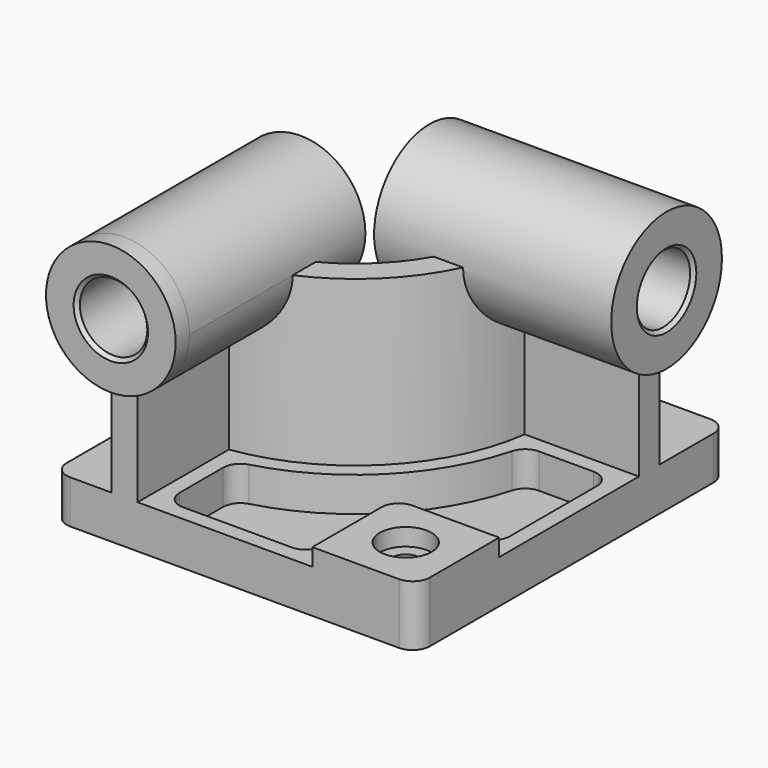
from build123d import *

# Parameters (mm, degrees)
F0_W            = 210
F0_H            = 225
F1_DEPTH        = 25
F3_DEPTH        = 95
F4_R            = 37.5
F5_DEPTH        = 10
F5_DEPTH_BACK   = 127.1
F6_R            = 40
F7_DEPTH        = 10
F7_DEPTH_BACK   = 127.1
F8_W            = 60
F8_H            = 60
F9_DEPTH        = 10
F10_R           = 10
F12_DEPTH       = 20
F14_D           = 15
F14_CBORE_D     = 30
F14_CBORE_DEPTH = 10
F15_R           = 10
F16_R           = 19.5
F17_DEPTH       = 235.001
F18_R           = 19.5
F19_DEPTH       = 220.001
F20_SIZE        = 2
F21_R           = 10


with BuildPart() as f1:
    # F0 (on Top) → F1 (new body)
    with BuildSketch(Plane.XY):
        Rectangle(F0_W, F0_H)
    extrude(amount=F1_DEPTH)

    # F2 (on face) → F3 (join)
    with BuildSketch(Plane.XY.offset(25)):
        with BuildLine():
            Line((-71, -32.5), (-71, -112.5))
            Line((-71, -112.5), (-56, -112.5))
            Line((-56, -112.5), (-56, -46.481817))
            ThreePointArc((-56, -46.481817), (7.488853, -14.988853), (38.981817, 48.5))
            Line((38.981817, 48.5), (105, 48.5))
            Line((105, 48.5), (105, 63.5))
            Line((105, 63.5), (25, 63.5))
            ThreePointArc((25, 63.5), (-3.117749, -4.382251), (-71, -32.5))
        make_face()
    extrude(amount=F3_DEPTH)

    # F4 (on face) → F5 (join, two sides)
    with BuildSketch(Plane.XZ.offset(112.5)) as f5_sk:
        with Locations((-63.5, 120)):
            Circle(F4_R)
    extrude(amount=F5_DEPTH)
    extrude(f5_sk.sketch, amount=-F5_DEPTH_BACK)

    # F6 (on face) → F7 (join, two sides)
    with BuildSketch(Plane.YZ.offset(105)) as f7_sk:
        with Locations((56, 120)):
            Circle(F6_R)
    extrude(amount=F7_DEPTH)
    extrude(f7_sk.sketch, amount=-F7_DEPTH_BACK)

    # F8 (on face) → F9 (join)
    with BuildSketch(Plane.XY.offset(25)):
        with Locations((75, -82.5)):
            Rectangle(F8_W, F8_H)
    extrude(amount=F9_DEPTH)

    # F10
    f10_edges = [f1.edges().sort_by_distance(p)[0] for p in [
        (45, -52.5, 30),
    ]]
    fillet(f10_edges, radius=F10_R)

    # F11 (on face) → F12 (cut)
    with BuildSketch(Plane.XY.offset(25)):
        with BuildLine():
            ThreePointArc((46.575508, 39.5), (13.852814, -21.352814), (-47, -54.075508))
            Line((-47, -54.075508), (-47, -103.5))
            Line((-47, -103.5), (36, -103.5))
            Line((36, -103.5), (36, -62.5))
            ThreePointArc((36, -62.5), (41.564971, -49.064971), (55, -43.5))
            Line((55, -43.5), (96, -43.5))
            Line((96, -43.5), (96, 39.5))
            Line((96, 39.5), (46.575508, 39.5))
        make_face()
    extrude(amount=-F12_DEPTH, mode=Mode.SUBTRACT)

    # F14 (through all)
    with Locations(Plane.XY.offset(35)):
        with Locations((75, -82.5)):
            CounterBoreHole(F14_D / 2, F14_CBORE_D / 2, F14_CBORE_DEPTH)

    # F15
    f15_edges = [f1.edges().sort_by_distance(p)[0] for p in [
        (-47, -54.075508, 15),
        (46.575508, 39.5, 15),
        (-47, -103.5, 15),
        (36, -103.5, 15),
        (96, -43.5, 15),
        (96, 39.5, 15),
    ]]
    fillet(f15_edges, radius=F15_R)

    # F16 (on face) → F17 (cut, through all)
    with BuildSketch(Plane.XZ.offset(122.5)):
        with Locations((-63.5, 120)):
            Circle(F16_R)
    extrude(amount=-F17_DEPTH, mode=Mode.SUBTRACT)

    # F18 (on face) → F19 (cut, through all)
    with BuildSketch(Plane.YZ.offset(115)):
        with Locations((56, 120)):
            Circle(F18_R)
    extrude(amount=-F19_DEPTH, mode=Mode.SUBTRACT)

    # F20
    f20_edges = [f1.edges().sort_by_distance(p)[0] for p in [
        (115, 36.5, 120),
        (-83, -122.5, 120),
        (-83, 14.6, 120),
        (-22.1, 36.5, 120),
    ]]
    chamfer(f20_edges, length=F20_SIZE)

    # F21
    f21_edges = [f1.edges().sort_by_distance(p)[0] for p in [
        (-105, 112.5, 12.5),
        (105, 112.5, 12.5),
        (105, -112.5, 17.5),
        (-105, -112.5, 12.5),
    ]]
    fillet(f21_edges, radius=F21_R)


solid = f1.part
